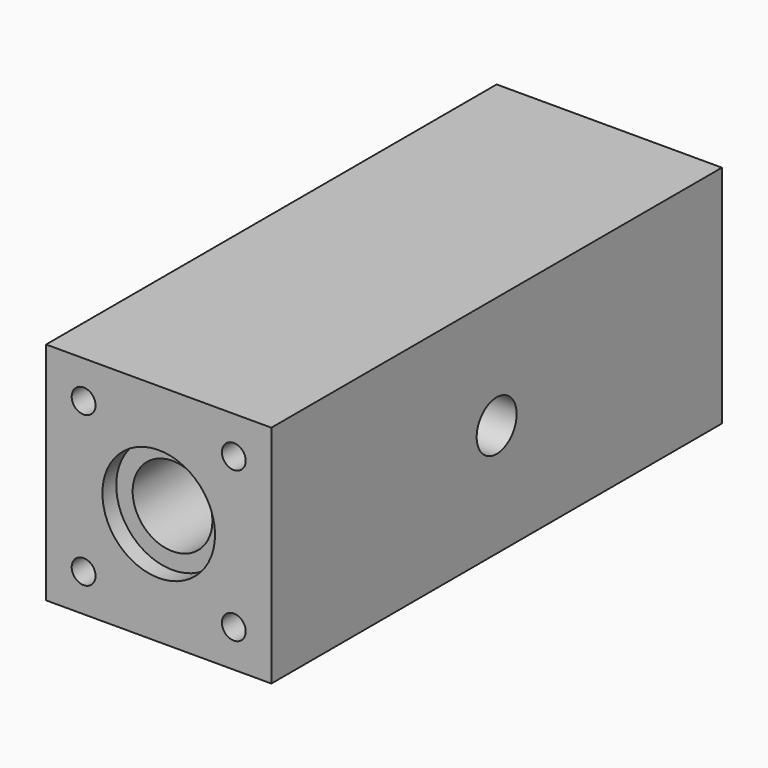
from build123d import *

# Parameters (mm, degrees)
F0_W      = 38.1
F0_H      = 38.1
F0_R      = 6.746875
F1_DEPTH  = 95.25
F3_D      = 4.0386
F3_DEPTH  = 12.7
F3_TIP    = 1.213317848
F5_D      = 4.0386
F5_DEPTH  = 12.7
F5_TIP    = 1.213317848
F6_R      = 9.525
F6_R_2    = 6.746875
F7_DEPTH  = 2.921
F8_R      = 9.525
F8_R_2    = 6.746875
F9_DEPTH  = 2.921
F11_D     = 8.45058
F11_DEPTH = 15.875
F11_TIP   = 2.538810365


with BuildPart() as f1:
    # F0 (on Front) → F1 (new body)
    with BuildSketch(Plane.XZ):
        Rectangle(F0_W, F0_H)
        Circle(F0_R, mode=Mode.SUBTRACT)
    extrude(amount=F1_DEPTH)

    # F3
    with Locations(Plane(origin=(0, 0, 0), x_dir=(-1, 0, 0), z_dir=(0, 1, 0))):
        with Locations((-12.7, -12.7), (-12.7, 12.7), (12.7, 12.7), (12.7, -12.7)):
            Hole(F3_D / 2, depth=F3_DEPTH)
            with Locations((0, 0, -(F3_DEPTH + F3_TIP / 2))):  # 118° drill point
                Cone(0, F3_D / 2, F3_TIP, mode=Mode.SUBTRACT)

    # F5
    with Locations(Plane.XZ.offset(95.25)):
        with Locations((-12.7, 12.7), (-12.7, -12.7), (12.7, -12.7), (12.7, 12.7)):
            Hole(F5_D / 2, depth=F5_DEPTH)
            with Locations((0, 0, -(F5_DEPTH + F5_TIP / 2))):  # 118° drill point
                Cone(0, F5_D / 2, F5_TIP, mode=Mode.SUBTRACT)

    # F6 (on face) → F7 (cut)
    with BuildSketch(Plane.XZ.offset(95.25)):
        Circle(F6_R)
        Circle(F6_R_2, mode=Mode.SUBTRACT)
    extrude(amount=-F7_DEPTH, mode=Mode.SUBTRACT)

    # F8 (on face) → F9 (cut)
    with BuildSketch(Plane(origin=(0, 0, 0), x_dir=(-1, 0, 0), z_dir=(0, 1, 0))):
        Circle(F8_R)
        Circle(F8_R_2, mode=Mode.SUBTRACT)
    extrude(amount=-F9_DEPTH, mode=Mode.SUBTRACT)

    # F11
    with Locations(Plane.YZ.offset(19.05)):
        with Locations((-47.625, 0)):
            Hole(F11_D / 2, depth=F11_DEPTH)
            with Locations((0, 0, -(F11_DEPTH + F11_TIP / 2))):  # 118° drill point
                Cone(0, F11_D / 2, F11_TIP, mode=Mode.SUBTRACT)


solid = f1.part
